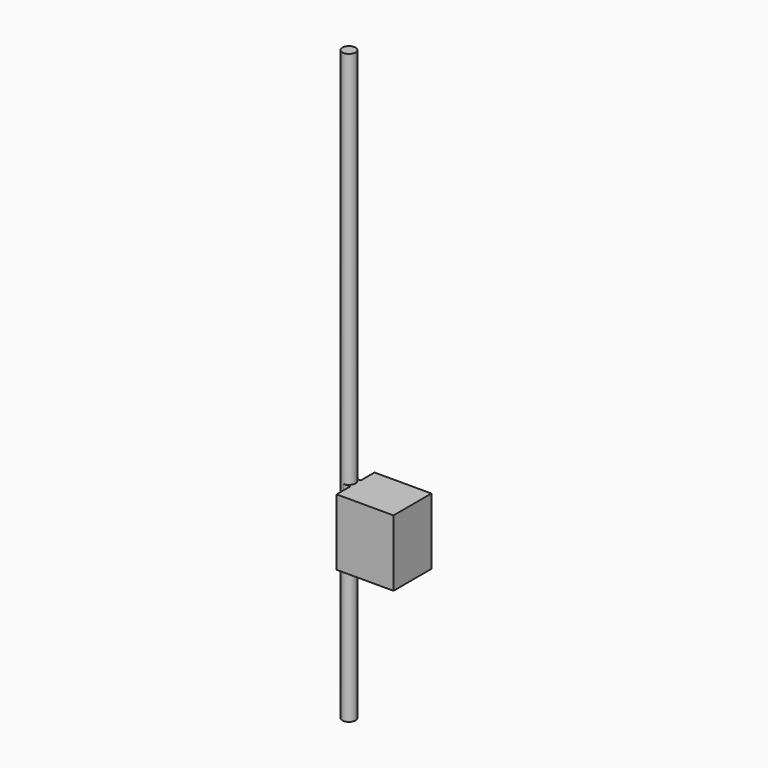
from build123d import *

# Parameters (mm, degrees)
F0_R     = 17.78
F1_DEPTH = 787.4
F2_W     = 152.4
F2_H     = 177.8
F3_DEPTH = 63.5
F5_DEPTH = 177.8


with BuildPart() as f1:
    # F0 (on Top) → F1 (new body, symmetric)
    with BuildSketch(Plane.XY):
        Circle(F0_R)
    extrude(amount=F1_DEPTH, both=True)

    # F2 (on Front) → F3 (join, symmetric)
    with BuildSketch(Plane.XZ):
        with Locations((93.98, -317.5)):
            Rectangle(F2_W, F2_H)
    extrude(amount=F3_DEPTH, both=True)

    # F4 (on face) → F5 (join, through all)
    with BuildSketch(Plane.XY.offset(-228.6)):
        with BuildLine():
            Line((17.78, -17.78), (17.78, 0))
            ThreePointArc((17.78, 0), (12.5723585695, -12.5723585695), (0, -17.78))
            Line((0, -17.78), (17.78, -17.78))
        make_face()
        with BuildLine():
            ThreePointArc((0, 17.78), (12.5723585695, 12.5723585695), (17.78, 0))
            Line((17.78, 0), (17.78, 17.78))
            Line((17.78, 17.78), (0, 17.78))
        make_face()
    extrude(amount=-F5_DEPTH)


solid = f1.part
